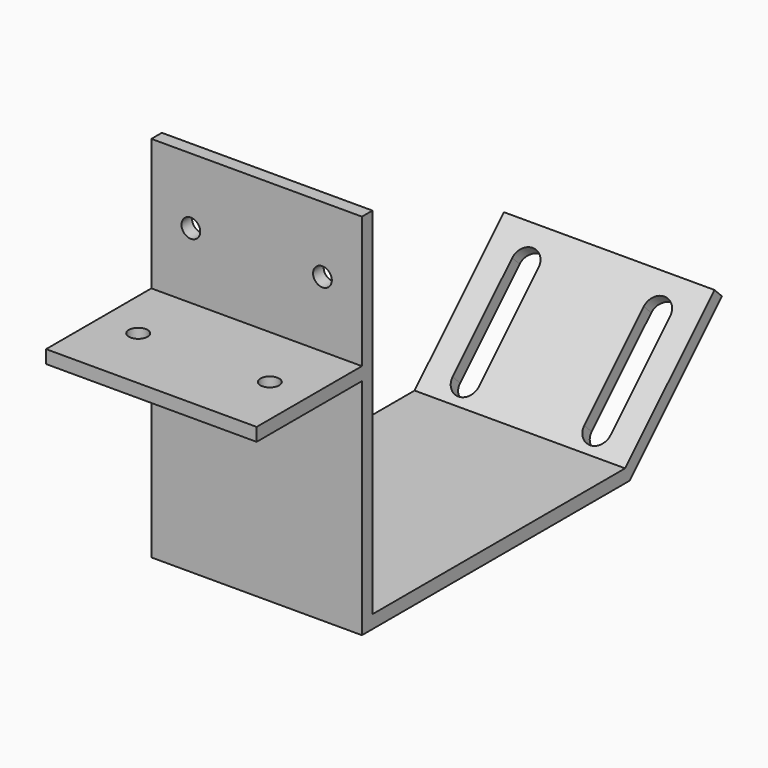
from build123d import *

# Parameters (mm, degrees)
F1_DEPTH = 25.4
F2_R     = 2.2606
F3_DEPTH = 3.175
F4_R     = 2.2606
F5_DEPTH = 3.175
F6_W     = 6.35
F6_H     = 25.4
F7_DEPTH = 3.175


with BuildPart() as f1:
    # F0 (on Right) → F1 (new body, symmetric)
    with BuildSketch(Plane.YZ):
        Polygon((0, 31.75), (0, 0), (-31.75, 0), (-31.75, -3.175), (0, -3.175), (0, -57.15), (80.690128, -57.15), (108.560832, -29.279296), (106.315768, -27.034232), (79.375, -53.975), (3.175, -53.975), (3.175, 31.75), align=None)
    extrude(amount=F1_DEPTH, both=True)

    # F2 (on face) → F3 (cut, through all)
    with BuildSketch(Plane(origin=(0, 3.175, 0), x_dir=(-1, 0, 0), z_dir=(0, 1, 0))):
        with Locations((15.875, 15.875)):
            Circle(F2_R)
        with Locations((-15.875, 15.875)):
            Circle(F2_R)
    extrude(amount=-F3_DEPTH, mode=Mode.SUBTRACT)

    # F4 (on face) → F5 (cut, through all)
    with BuildSketch(Plane.XY):
        with Locations((15.875, -15.875)):
            Circle(F4_R)
        with Locations((-15.875, -15.875)):
            Circle(F4_R)
    extrude(amount=-F5_DEPTH, mode=Mode.SUBTRACT)

    # F6 (on face) → F7 (cut, through all)
    with BuildSketch(Plane(origin=(0, 68.920064, -68.920064), x_dir=(-1, 0, 0), z_dir=(0, 0.707107, -0.707107))):
        with BuildLine():
            ThreePointArc((-12.7, 48.368529), (-15.875, 51.543529), (-19.05, 48.368529))
            Line((-19.05, 48.368529), (-12.7, 48.368529))
        make_face()
        with Locations((-15.875, 35.668529)):
            Rectangle(F6_W, F6_H)
        with BuildLine():
            Line((-12.7, 22.968529), (-19.05, 22.968529))
            ThreePointArc((-19.05, 22.968529), (-15.875, 19.793529), (-12.7, 22.968529))
        make_face()
        with BuildLine():
            ThreePointArc((19.05, 48.368529), (15.875, 51.543529), (12.7, 48.368529))
            Line((12.7, 48.368529), (19.05, 48.368529))
        make_face()
        with Locations((15.875, 35.668529)):
            Rectangle(F6_W, F6_H)
        with BuildLine():
            Line((19.05, 22.968529), (12.7, 22.968529))
            ThreePointArc((12.7, 22.968529), (15.875, 19.793529), (19.05, 22.968529))
        make_face()
    extrude(amount=-F7_DEPTH, mode=Mode.SUBTRACT)


solid = f1.part
